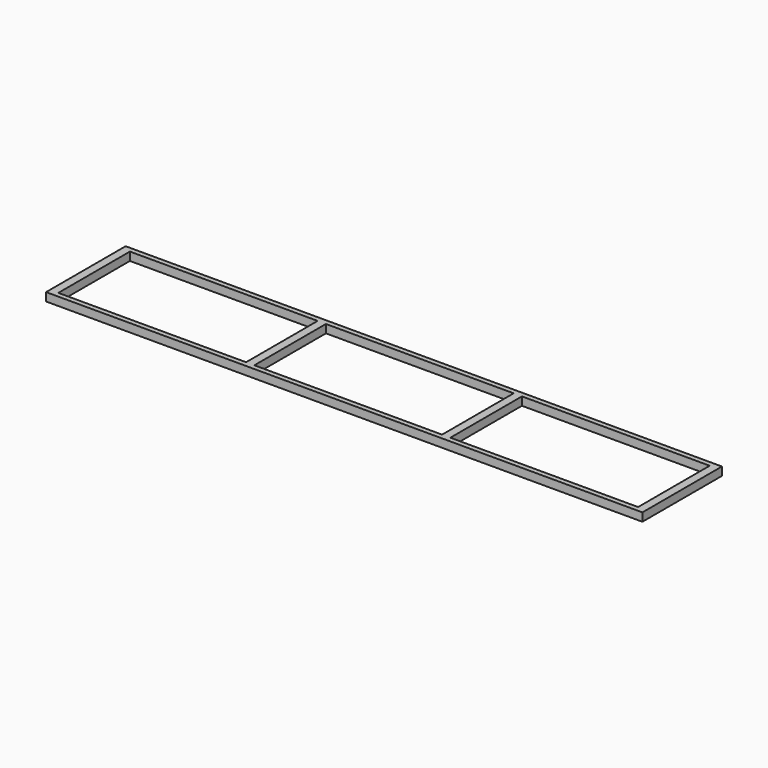
from build123d import *

# Parameters (mm, degrees)
F1_DEPTH = 5


with BuildPart() as f1:
    # F0 (on Top) → F1 (new body)
    with BuildSketch(Plane.XY):
        Polygon((5, 0), (0, 0), (0, -30), (360, -30), (360, 0), (355, 0), (355, -27), (241.666667, -27), (241.666667, 0), (236.666667, 0), (236.666667, -27), (123.333333, -27), (123.333333, 0), (118.333333, 0), (118.333333, -27), (5, -27), align=None)
    extrude(amount=F1_DEPTH)

    # F2: F1 across face


with BuildPart() as f1_1:
    add(f1.part)
    add(f1.part.mirror(Plane(origin=(2.5, 0, 2.5), x_dir=(-1, 0, 0), z_dir=(0, 1, 0))))


solid = f1_1.part
